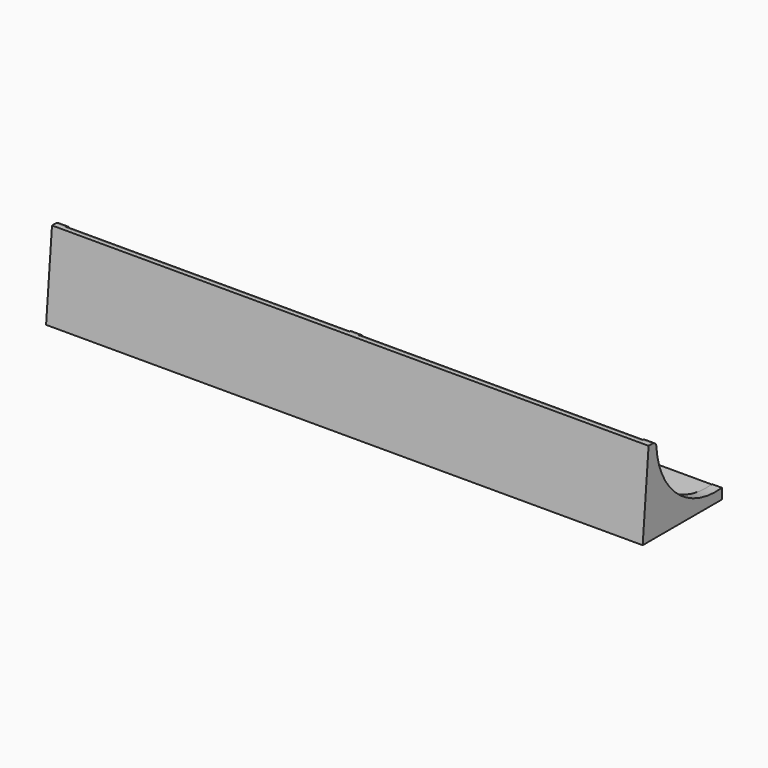
from build123d import *

# Parameters (mm, degrees)
BOX006_W                           = 20
BOX006_H                           = 120
BOX006_DEPTH                       = 25
BOX006_PLACEMENT_ANGLE             = 5
BOX002_W                           = 20
BOX002_H                           = 57
BOX002_DEPTH                       = 17
FILLET005002_R                     = 2
BOX008_W                           = 20
BOX008_H                           = 120
BOX008_DEPTH                       = 25
BOX008_PLACEMENT_ANGLE             = 5
BOX007_W                           = 20
BOX007_H                           = 57
BOX007_DEPTH                       = 17
FILLET003001002002_R               = 2
CYLINDER_R                         = 15
CYLINDER_DEPTH                     = 120
BOX005_W                           = 20
BOX005_H                           = 120
BOX005_DEPTH                       = 25
BOX005_PLACEMENT_ANGLE             = 5
BOX004_W                           = 20
BOX004_H                           = 120
BOX004_DEPTH                       = 17
FILLET003001002003_R               = 1
FILLET003001002004_R               = 1
FILLET003001002004_PLACEMENT_ANGLE = 90


with BuildPart() as cube006:
    # Box006 → Box006 (new body)
    with BuildSketch(Plane.XY):
        with Locations((10, 60)):
            Rectangle(BOX006_W, BOX006_H)
    extrude(amount=BOX006_DEPTH)


with BuildPart() as cube006_1:
    # Box006 placement: moved
    add(cube006.part.moved(Location((-20, -60, 0))).rotate(Axis((-20, -60, 0), (0, 1, 0)), BOX006_PLACEMENT_ANGLE))


with BuildPart() as cutout002:
    # Box002 → Box002 (new body)
    with BuildSketch(Plane(origin=(0, -58.5, 0), x_dir=(1, 0, 0), z_dir=(0, 0, 1))):
        with Locations((10, 28.5)):
            Rectangle(BOX002_W, BOX002_H)
    extrude(amount=BOX002_DEPTH)

    # Cut002: cut Cube006
    add(cube006_1.part, mode=Mode.SUBTRACT)

    # Fillet005002
    fillet005002_edges = [cutout002.edges().sort_by_distance(p)[0] for p in [
        (0.076397, -30, 0),
    ]]
    fillet(fillet005002_edges, radius=FILLET005002_R)


with BuildPart() as cutout002_1:
    # Fillet005002 placement: moved
    add(cutout002.part.moved(Location((2, 0.5, 2))))


with BuildPart() as cube008:
    # Box008 → Box008 (new body)
    with BuildSketch(Plane.XY):
        with Locations((10, 60)):
            Rectangle(BOX008_W, BOX008_H)
    extrude(amount=BOX008_DEPTH)


with BuildPart() as cube008_1:
    # Box008 placement: moved
    add(cube008.part.moved(Location((-20, -60, 0))).rotate(Axis((-20, -60, 0), (0, 1, 0)), BOX008_PLACEMENT_ANGLE))


with BuildPart() as fusion:
    # Box007 → Box007 (new body)
    with BuildSketch(Plane(origin=(0, -58.5, 0), x_dir=(1, 0, 0), z_dir=(0, 0, 1))):
        with Locations((10, 28.5)):
            Rectangle(BOX007_W, BOX007_H)
    extrude(amount=BOX007_DEPTH)

    # Cut005: cut Cube008
    add(cube008_1.part, mode=Mode.SUBTRACT)

    # Fillet003001002002
    fillet003001002002_edges = [fusion.edges().sort_by_distance(p)[0] for p in [
        (0.076397, -30, 0),
    ]]
    fillet(fillet003001002002_edges, radius=FILLET003001002002_R)


with BuildPart() as fusion_1:
    # Fillet003001002002 placement: moved
    add(fusion.part.moved(Location((2, 59.5, 2))))

    # Fusion: union Cutout002
    add(cutout002_1.part)


with BuildPart() as cylinder:
    # Cylinder → Cylinder (new body)
    with BuildSketch(Plane(origin=(18.5, 60, 17), x_dir=(1, 0, 0), z_dir=(0, -1, 0))):
        Circle(CYLINDER_R)
    extrude(amount=CYLINDER_DEPTH)


with BuildPart() as cube005:
    # Box005 → Box005 (new body)
    with BuildSketch(Plane.XY):
        with Locations((10, 60)):
            Rectangle(BOX005_W, BOX005_H)
    extrude(amount=BOX005_DEPTH)


with BuildPart() as cube005_1:
    # Box005 placement: moved
    add(cube005.part.moved(Location((-20, -60, 0))).rotate(Axis((-20, -60, 0), (0, 1, 0)), BOX005_PLACEMENT_ANGLE))


with BuildPart() as fillet003001002004:
    # Box004 → Box004 (new body)
    with BuildSketch(Plane(origin=(0, -60, 0), x_dir=(1, 0, 0), z_dir=(0, 0, 1))):
        with Locations((10, 60)):
            Rectangle(BOX004_W, BOX004_H)
    extrude(amount=BOX004_DEPTH)

    # Cut003: cut Cube005
    add(cube005_1.part, mode=Mode.SUBTRACT)

    # Cut004: cut Cylinder
    add(cylinder.part, mode=Mode.SUBTRACT)

    # Cut006: cut Fusion
    add(fusion_1.part, mode=Mode.SUBTRACT)

    # Fillet003001002003
    fillet003001002003_edges = [fillet003001002004.edges().sort_by_distance(p)[0] for p in [
        (3.388727, 29.5, 17),
        (3.388727, -29.5, 17),
    ]]
    fillet(fillet003001002003_edges, radius=FILLET003001002003_R)

    # Fillet003001002004
    fillet003001002004_edges = [fillet003001002004.edges().sort_by_distance(p)[0] for p in [
        (3.5, 59, 17),
        (3.5, -59, 17),
        (3.5, 0, 17),
    ]]
    fillet(fillet003001002004_edges, radius=FILLET003001002004_R)


with BuildPart() as fillet003001002004_1:
    # Fillet003001002004 placement: moved
    add(fillet003001002004.part.rotate(Axis((0, 0, 0), (0, 0, 1)), FILLET003001002004_PLACEMENT_ANGLE))


solid = fillet003001002004_1.part
